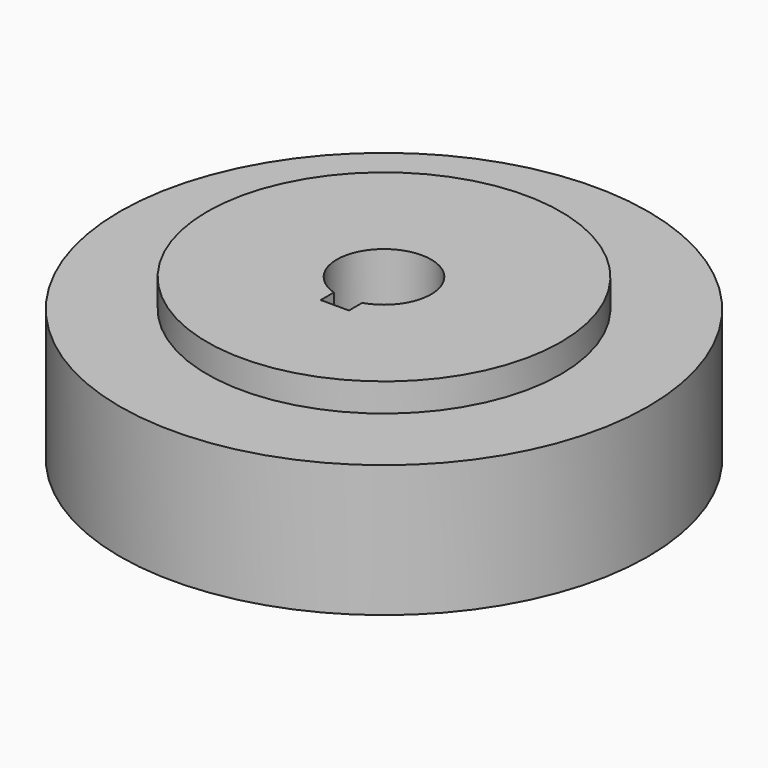
from build123d import *

# Parameters (mm, degrees)
F0_R     = 56.02
F0_R_2   = 10
F1_DEPTH = 28
F2_R     = 37.5
F2_R_2   = 10
F3_DEPTH = 6
F4_R     = 45
F4_R_2   = 10
F5_DEPTH = 18
F6_R     = 18
F6_R_2   = 10
F7_DEPTH = 9
F9_DEPTH = 25


with BuildPart() as f1:
    # F0 (on Top) → F1 (new body)
    with BuildSketch(Plane.XY):
        Circle(F0_R)
        Circle(F0_R_2, mode=Mode.SUBTRACT)
    extrude(amount=F1_DEPTH)

    # F2 (on face) → F3 (join)
    with BuildSketch(Plane.XY.offset(28)):
        Circle(F2_R)
        Circle(F2_R_2, mode=Mode.SUBTRACT)
    extrude(amount=F3_DEPTH)

    # F4 (on face) → F5 (cut)
    with BuildSketch(Plane(origin=(0, 0, 0), x_dir=(1, 0, 0), z_dir=(0, 0, -1))):
        Circle(F4_R)
        Circle(F4_R_2, mode=Mode.SUBTRACT)
    extrude(amount=-F5_DEPTH, mode=Mode.SUBTRACT)

    # F6 (on face) → F7 (join)
    with BuildSketch(Plane(origin=(0, 0, 18), x_dir=(1, 0, 0), z_dir=(0, 0, -1))):
        Circle(F6_R)
        Circle(F6_R_2, mode=Mode.SUBTRACT)
    extrude(amount=F7_DEPTH)

    # F8 (on face) → F9 (cut)
    with BuildSketch(Plane.XY.offset(34)):
        with BuildLine():
            ThreePointArc((3, -9.5393920142), (0, -10), (-3, -9.5393920142))
            Line((-3, -9.5393920142), (-3, -13.0393920142))
            Line((-3, -13.0393920142), (3, -13.0393920142))
            Line((3, -13.0393920142), (3, -9.5393920142))
        make_face()
    extrude(amount=-F9_DEPTH, mode=Mode.SUBTRACT)


solid = f1.part
